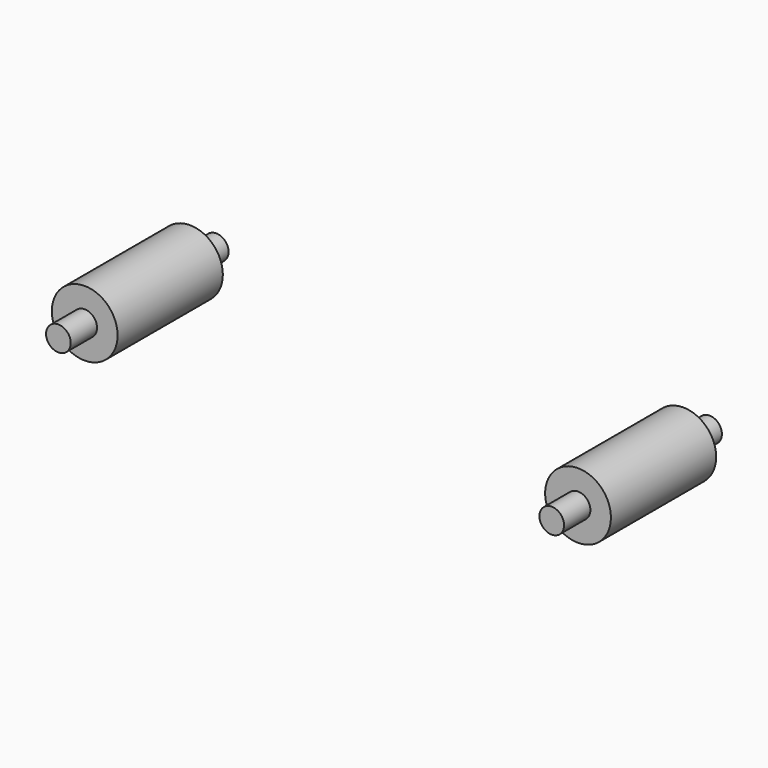
from build123d import *

# Parameters (mm, degrees)
F0_R      = 20
F1_DEPTH  = 80
F2_DEPTH  = 80
F3_R      = 7.5
F4_DEPTH  = 20
F5_R      = 7.5
F6_DEPTH  = 20
F7_R      = 7.5
F8_DEPTH  = 20
F9_R      = 7.5
F10_DEPTH = 20


with BuildPart() as f1:
    # F0 (on Front) → F1 (new body)
    with BuildSketch(Plane.XZ):
        with Locations((-150, 0)):
            Circle(F0_R)
    extrude(amount=F1_DEPTH)

    # F3 (on face) → F4 (join)
    with BuildSketch(Plane.XZ.offset(80)):
        with Locations((-150, 0)):
            Circle(F3_R)
    extrude(amount=F4_DEPTH)

    # F5 (on face) → F6 (join)
    with BuildSketch(Plane.XZ):
        with Locations((-150, 0)):
            Circle(F5_R)
    extrude(amount=-F6_DEPTH)


with BuildPart() as f2:
    # F0 (on Front) → F2 (new body)
    with BuildSketch(Plane.XZ):
        with Locations((150, 0)):
            Circle(F0_R)
    extrude(amount=F2_DEPTH)

    # F7 (on face) → F8 (join)
    with BuildSketch(Plane.XZ.offset(80)):
        with Locations((150, 0)):
            Circle(F7_R)
    extrude(amount=F8_DEPTH)

    # F9 (on face) → F10 (join)
    with BuildSketch(Plane.XZ):
        with Locations((150, 0)):
            Circle(F9_R)
    extrude(amount=-F10_DEPTH)


solid = Compound([f1.part, f2.part])
